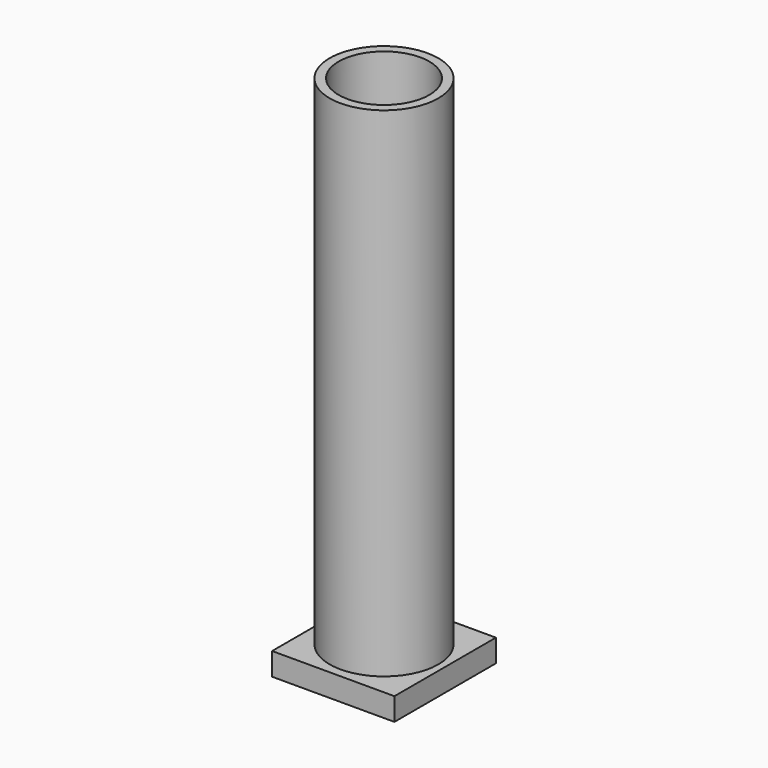
from build123d import *

# Parameters (mm, degrees)
F0_W      = 27
F0_H      = 28
F1_DEPTH  = 5
F2_R      = 12
F2_R_2    = 10
F3_DEPTH  = 110
F3_FACE_R = 10
F4_DEPTH  = 5


with BuildPart() as f1:
    # F0 (on Top) → F1 (new body)
    with BuildSketch(Plane.XY):
        Rectangle(F0_W, F0_H)
    extrude(amount=F1_DEPTH)

    # F2 (on face) → F3 (join)
    with BuildSketch(Plane.XY.offset(5)):
        Circle(F2_R)
        Circle(F2_R_2, mode=Mode.SUBTRACT)
    extrude(amount=F3_DEPTH)

    # F3_face (on face) → F4 (cut, through all)
    with BuildSketch(Plane.XY.offset(5)):
        Circle(F3_FACE_R)
    extrude(amount=-F4_DEPTH, mode=Mode.SUBTRACT)


solid = f1.part
